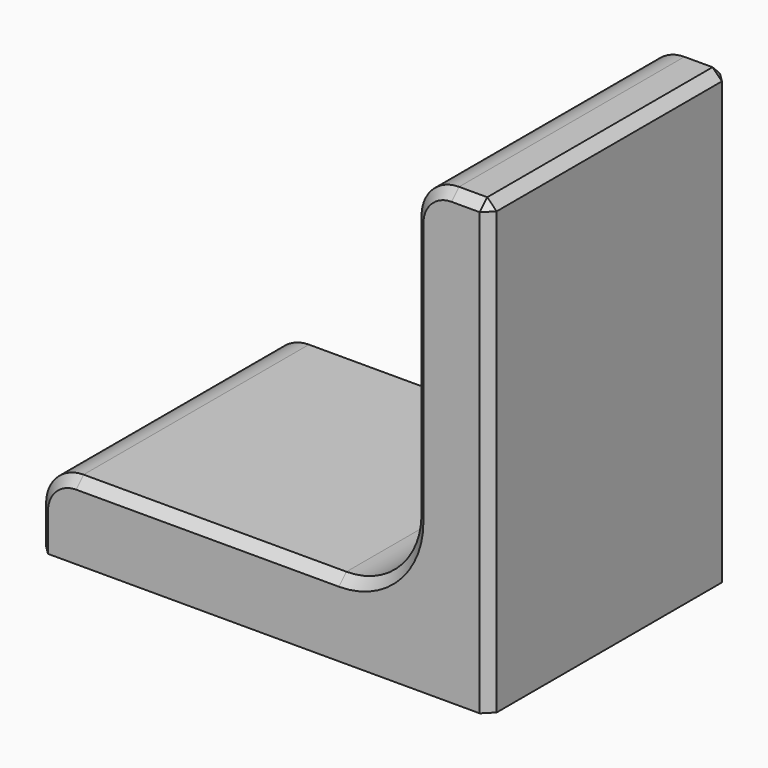
from build123d import *

# Parameters (mm, degrees)
F1_DEPTH = 12.7
F2_SIZE  = 0.79375


with BuildPart() as f1:
    # F0 (on Front) → F1 (new body, symmetric)
    with BuildSketch(Plane.XZ):
        with BuildLine():
            Line((0, 0), (0, 38.1))
            Line((0, 38.1), (-3.175, 38.1))
            ThreePointArc((-3.175, 38.1), (-5.420064, 37.170064), (-6.35, 34.925))
            Line((-6.35, 34.925), (-6.35, 12.7))
            ThreePointArc((-6.35, 12.7), (-8.209872, 8.209872), (-12.7, 6.35))
            Line((-12.7, 6.35), (-34.925, 6.35))
            ThreePointArc((-34.925, 6.35), (-37.170064, 5.420064), (-38.1, 3.175))
            Line((-38.1, 3.175), (-38.1, 0))
            Line((-38.1, 0), (0, 0))
        make_face()
    extrude(amount=F1_DEPTH, both=True)

    # F2
    f2_edges = [f1.edges().sort_by_distance(p)[0] for p in [
        (-23.8125, -12.7, 6.35),
        (-8.209872, -12.7, 8.209872),
        (-6.35, -12.7, 23.8125),
        (-5.420064, -12.7, 37.170064),
        (-1.5875, -12.7, 38.1),
        (-38.1, -12.7, 1.5875),
        (-37.170064, -12.7, 5.420064),
        (-1.5875, 12.7, 38.1),
        (-5.420064, 12.7, 37.170064),
        (-6.35, 12.7, 23.8125),
        (-8.209872, 12.7, 8.209872),
        (-23.8125, 12.7, 6.35),
        (-38.1, 12.7, 1.5875),
        (-37.170064, 12.7, 5.420064),
        (0, 12.7, 19.05),
        (0, -12.7, 19.05),
        (0, 0, 38.1),
    ]]
    chamfer(f2_edges, length=F2_SIZE)


solid = f1.part
